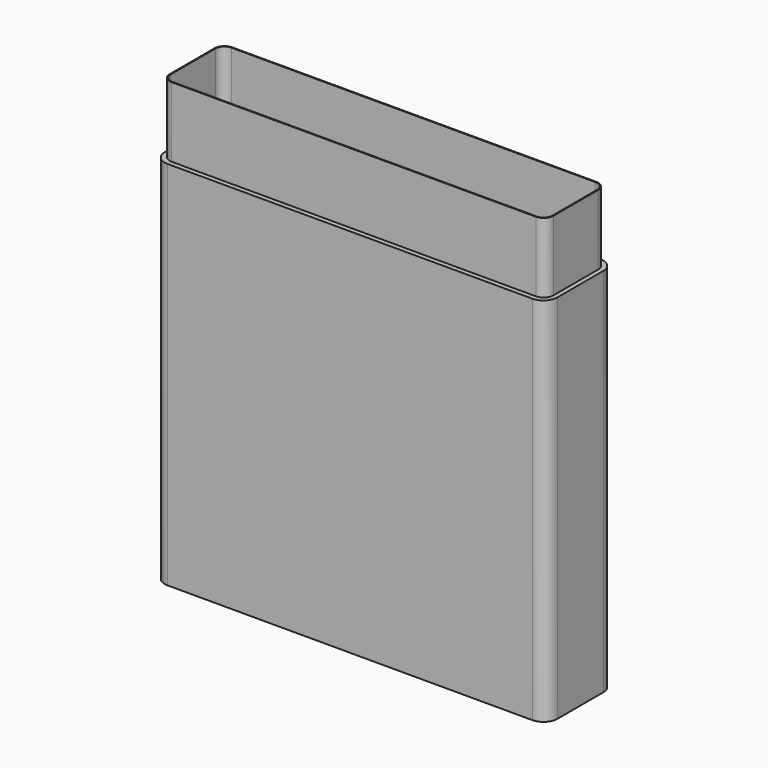
from build123d import *

# Parameters (mm, degrees)
F1_DEPTH = 132.5
F3_DEPTH = 132.5
F4_DEPTH = 25
F6_DEPTH = 25


with BuildPart() as f1:
    # F0 (on Top) → F1 (new body)
    with BuildSketch(Plane.XY):
        with BuildLine():
            ThreePointArc((70.130132, 10.233636), (68.665666, 13.76917), (65.130132, 15.233636))
            Line((65.130132, 15.233636), (-65.130132, 15.233636))
            ThreePointArc((-65.130132, 15.233636), (-68.665666, 13.76917), (-70.130132, 10.233636))
            Line((-70.130132, 10.233636), (-70.130132, -10.233636))
            ThreePointArc((-70.130132, -10.233636), (-68.665666, -13.76917), (-65.130132, -15.233636))
            Line((-65.130132, -15.233636), (65.130132, -15.233636))
            ThreePointArc((65.130132, -15.233636), (68.665666, -13.76917), (70.130132, -10.233636))
            Line((70.130132, -10.233636), (70.130132, 10.233636))
        make_face()
    extrude(amount=F1_DEPTH)

    # F2 (on face) → F3 (cut, through all)
    with BuildSketch(Plane.XY.offset(132.5)):
        with BuildLine():
            Line((65, 13.5), (-65, 13.5))
            ThreePointArc((-65, 13.5), (-67.474874, 12.474874), (-68.5, 10))
            Line((-68.5, 10), (-68.5, -10))
            ThreePointArc((-68.5, -10), (-67.474874, -12.474874), (-65, -13.5))
            Line((-65, -13.5), (65, -13.5))
            ThreePointArc((65, -13.5), (67.474874, -12.474874), (68.5, -10))
            Line((68.5, -10), (68.5, 10))
            ThreePointArc((68.5, 10), (67.474874, 12.474874), (65, 13.5))
        make_face()
    extrude(amount=-F3_DEPTH, mode=Mode.SUBTRACT)


with BuildPart() as f4:
    # F2 (on face) → F4 (new body)
    with BuildSketch(Plane.XY.offset(132.5)):
        with BuildLine():
            Line((65, 13.5), (-65, 13.5))
            ThreePointArc((-65, 13.5), (-67.474874, 12.474874), (-68.5, 10))
            Line((-68.5, 10), (-68.5, -10))
            ThreePointArc((-68.5, -10), (-67.474874, -12.474874), (-65, -13.5))
            Line((-65, -13.5), (65, -13.5))
            ThreePointArc((65, -13.5), (67.474874, -12.474874), (68.5, -10))
            Line((68.5, -10), (68.5, 10))
            ThreePointArc((68.5, 10), (67.474874, 12.474874), (65, 13.5))
        make_face()
    extrude(amount=F4_DEPTH)

    # F5 (on face) → F6 (cut, through all)
    with BuildSketch(Plane.XY.offset(157.5)):
        with BuildLine():
            ThreePointArc((-65, 13.2), (-67.262742, 12.262742), (-68.2, 10))
            Line((-68.2, 10), (-68.2, -10))
            ThreePointArc((-68.2, -10), (-67.262742, -12.262742), (-65, -13.2))
            Line((-65, -13.2), (65, -13.2))
            ThreePointArc((65, -13.2), (67.262742, -12.262742), (68.2, -10))
            Line((68.2, -10), (68.2, 10))
            ThreePointArc((68.2, 10), (67.262742, 12.262742), (65, 13.2))
            Line((65, 13.2), (-65, 13.2))
        make_face()
    extrude(amount=-F6_DEPTH, mode=Mode.SUBTRACT)


solid = Compound([f1.part, f4.part])
